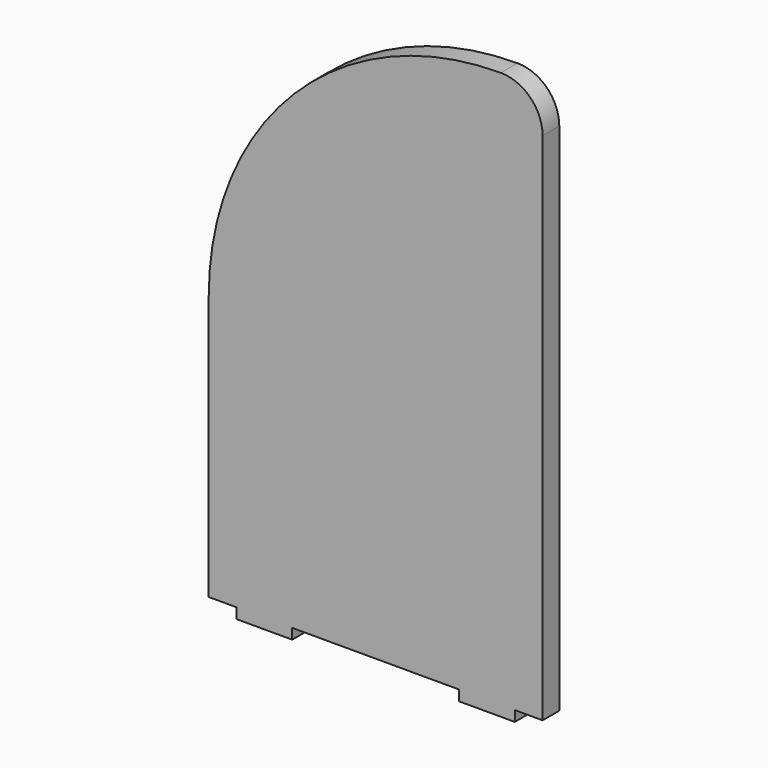
from build123d import *

# Parameters (mm, degrees)
F1_DEPTH = 19.05


with BuildPart() as f1:
    # F0 (on Front) → F1 (new body)
    with BuildSketch(Plane.XZ):
        with BuildLine():
            Line((-142.719461, 108.376235), (-142.719461, -132.923765))
            Line((-142.719461, -132.923765), (-117.319461, -132.923765))
            Line((-117.319461, -132.923765), (-117.319461, -142.448765))
            Line((-117.319461, -142.448765), (-66.519461, -142.448765))
            Line((-66.519461, -142.448765), (-66.519461, -132.923765))
            Line((-66.519461, -132.923765), (85.880539, -132.923765))
            Line((85.880539, -132.923765), (85.880539, -142.448765))
            Line((85.880539, -142.448765), (136.680539, -142.448765))
            Line((136.680539, -142.448765), (136.680539, -132.923765))
            Line((136.680539, -132.923765), (162.080539, -132.923765))
            Line((162.080539, -132.923765), (162.080539, 336.976235))
            ThreePointArc((162.080539, 336.976235), (150.921307, 363.917003), (123.980539, 375.076235))
            ThreePointArc((123.980539, 375.076235), (-64.60484, 296.961613), (-142.719461, 108.376235))
        make_face()
    extrude(amount=F1_DEPTH)


solid = f1.part
